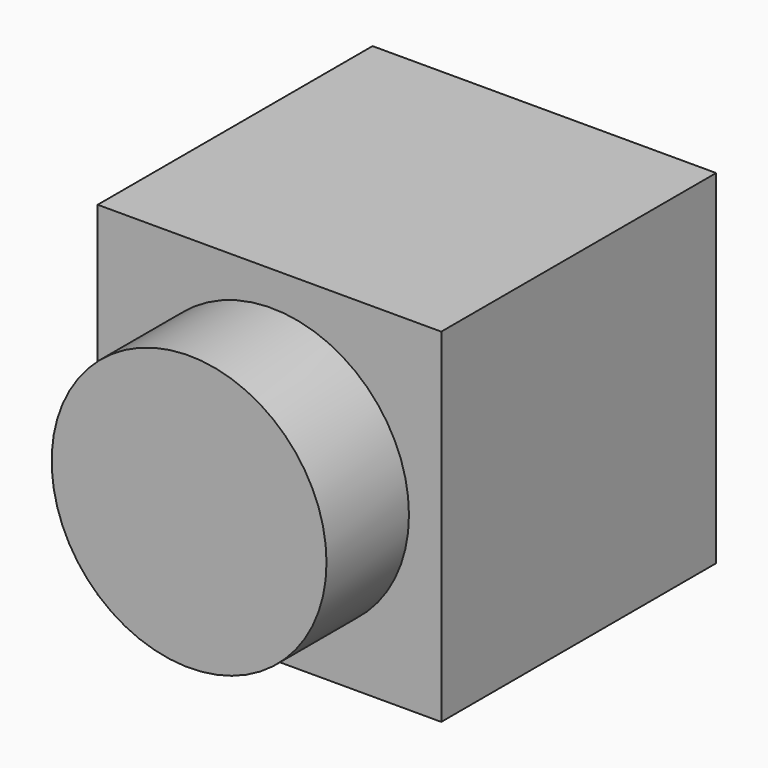
from build123d import *

# Parameters (mm, degrees)
F0_W     = 254
F0_H     = 254
F1_DEPTH = 254
F2_R     = 101.6
F3_DEPTH = 76.2
F4_R     = 101.6
F5_DEPTH = 76.2


with BuildPart() as f1:
    # F0 (on Top) → F1 (new body)
    with BuildSketch(Plane.XY):
        with Locations((-1.528222, -2.116666)):
            Rectangle(F0_W, F0_H)
    extrude(amount=F1_DEPTH)

    # F2 (on face) → F3 (join)
    with BuildSketch(Plane.XZ.offset(129.116666)):
        with Locations((0, 127)):
            Circle(F2_R)
    extrude(amount=F3_DEPTH)

    # F4 (on face) → F5 (cut)
    with BuildSketch(Plane(origin=(0, 124.883334, 0), x_dir=(-1, 0, 0), z_dir=(0, 1, 0))):
        with Locations((0, 127)):
            Circle(F4_R)
    extrude(amount=-F5_DEPTH, mode=Mode.SUBTRACT)


solid = f1.part
